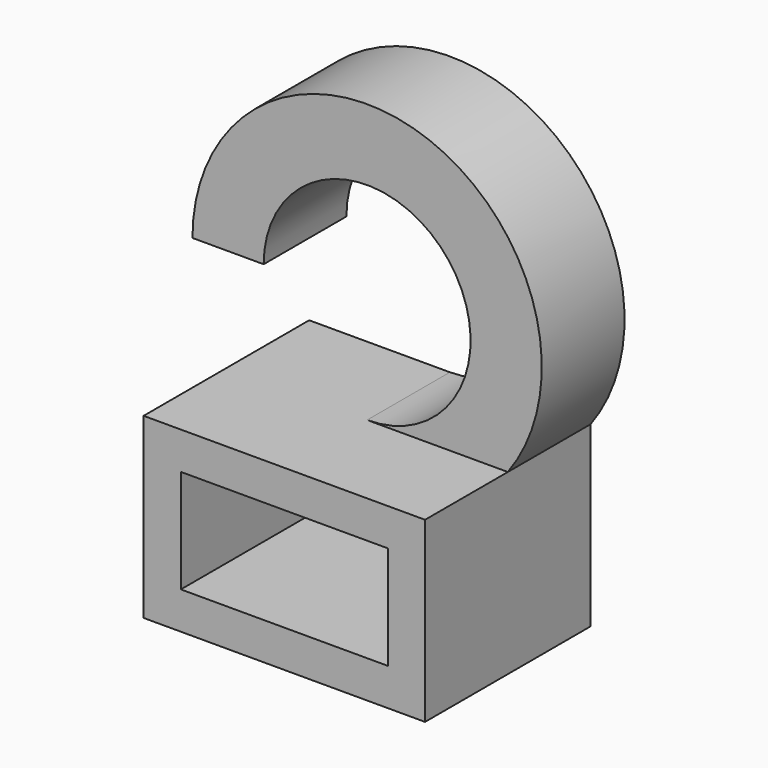
from build123d import *

# Parameters (mm, degrees)
F1_DEPTH = 10
F2_DEPTH = 1.8
F3_DEPTH = 5


with BuildPart() as f1:
    # F0 (on Front) → F1 (new body)
    with BuildSketch(Plane.XZ):
        with BuildLine():
            Line((-5, -2.5), (-5, 2.5))
            ThreePointArc((-5, 2.5), (-5.968249, 3.331751), (-6.8, 4.3))
            Line((-6.8, 4.3), (-6.8, -4.3))
            Line((-6.8, -4.3), (6.8, -4.3))
            Line((6.8, -4.3), (6.8, 4.3))
            ThreePointArc((6.8, 4.3), (5.968249, 3.331751), (5, 2.5))
            Line((5, 2.5), (5, -2.5))
            Line((5, -2.5), (-5, -2.5))
        make_face()
        with BuildLine():
            ThreePointArc((-6.8, 4.3), (-5.968249, 3.331751), (-5, 2.5))
            Line((-5, 2.5), (5, 2.5))
            ThreePointArc((5, 2.5), (5.968249, 3.331751), (6.8, 4.3))
            Line((6.8, 4.3), (0, 4.3))
            Line((0, 4.3), (-6.8, 4.3))
        make_face()
    extrude(amount=F1_DEPTH)

    # F0 (on Front) → F2 (join)
    with BuildSketch(Plane.XZ):
        with BuildLine():
            Line((5, 2.5), (-5, 2.5))
            ThreePointArc((-5, 2.5), (0, 0.859621), (5, 2.5))
        make_face()
        with BuildLine():
            ThreePointArc((5, 2.5), (0, 0.859621), (-5, 2.5))
            Line((-5, 2.5), (-5, -2.5))
            Line((-5, -2.5), (5, -2.5))
            Line((5, -2.5), (5, 2.5))
        make_face()
    extrude(amount=F2_DEPTH)

    # F0 (on Front) → F3 (join)
    with BuildSketch(Plane.XZ):
        with BuildLine():
            Line((0, 4.3), (6.8, 4.3))
            ThreePointArc((6.8, 4.3), (2.631105, 17.319806), (-8.440379, 9.3))
            Line((-8.440379, 9.3), (-5, 9.3))
            ThreePointArc((-5, 9.3), (3.535534, 12.835534), (0, 4.3))
        make_face()
    extrude(amount=F3_DEPTH)


solid = f1.part
